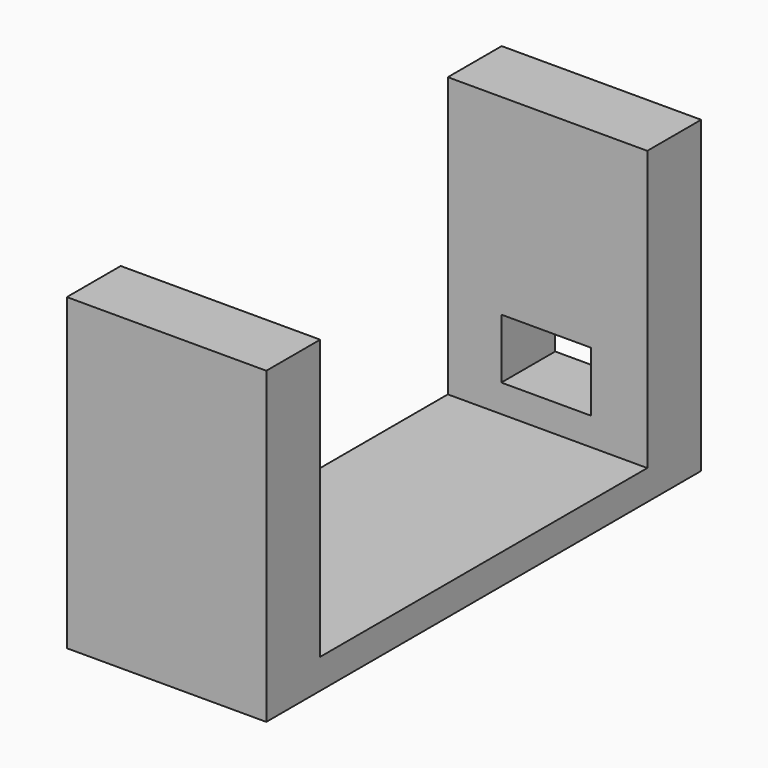
from build123d import *

# Parameters (mm, degrees)
PAD_DEPTH       = 20
SKETCH001_W     = 9
SKETCH001_H     = 6
POCKET_DEPTH    = 8
SKETCH002_W     = 4.2
SKETCH002_H     = 4.2
POCKET001_DEPTH = 5


with BuildPart() as part:
    # Sketch → Pad (new body)
    with BuildSketch(Plane.YZ):
        Polygon((-27.098937, -22.548221), (27.401063, -22.548221), (27.401063, 8.451779), (20.651063, 8.451779), (20.651063, -19.548221), (-20.348937, -19.548221), (-20.348937, 8.451779), (-27.098937, 8.451779), align=None)
    extrude(amount=PAD_DEPTH)

    # Sketch001 → Pocket (cut)
    with BuildSketch(Plane(origin=(0, 27.401063, 0), x_dir=(-1, 0, 0), z_dir=(0, 1, 0))):
        with Locations((-9.865053, -13.762334)):
            Rectangle(SKETCH001_W, SKETCH001_H)
    extrude(amount=-POCKET_DEPTH, mode=Mode.SUBTRACT)

    # Sketch002 (on Face4 of Pocket) → Pocket001 (cut)
    with BuildSketch(Plane(origin=(0, 0, 0), x_dir=(0, 1, 0), z_dir=(-1, 0, 0))):
        with Locations((-23.796906, 18.893097)):
            Rectangle(SKETCH002_W, SKETCH002_H)
        with Locations((23.941537, 18.893097)):
            Rectangle(SKETCH002_W, SKETCH002_H)
    extrude(amount=-POCKET001_DEPTH, mode=Mode.SUBTRACT)


solid = part.part
